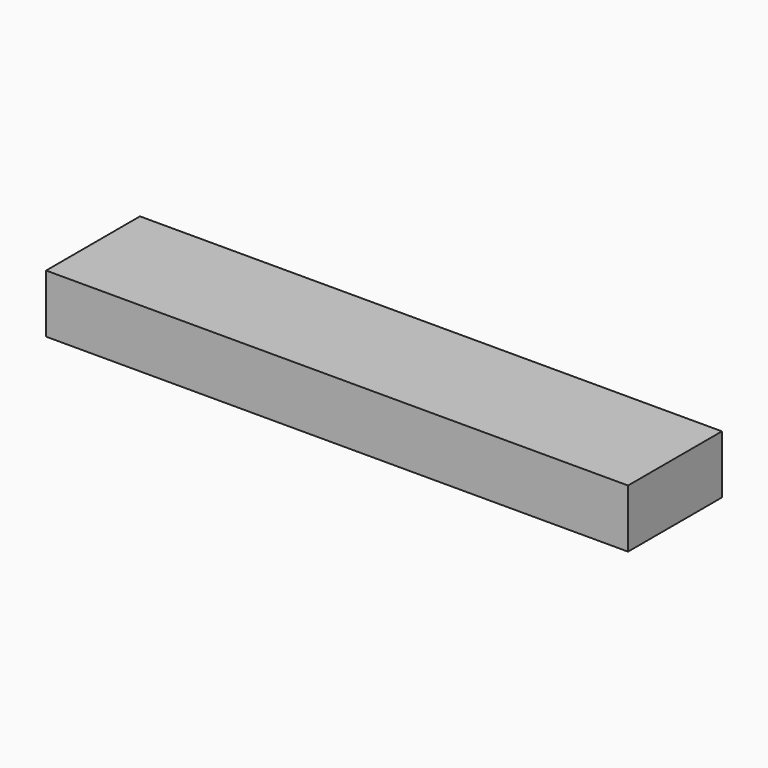
from build123d import *

# Parameters (mm, degrees)
SKETCH_W  = 14.989902
SKETCH_H  = 3.022248
PAD_DEPTH = 1.5


with BuildPart() as part:
    # Sketch → Pad (new body)
    with BuildSketch(Plane.XY):
        with Locations((7.494951, 1.511124)):
            Rectangle(SKETCH_W, SKETCH_H)
    extrude(amount=PAD_DEPTH)


solid = part.part
